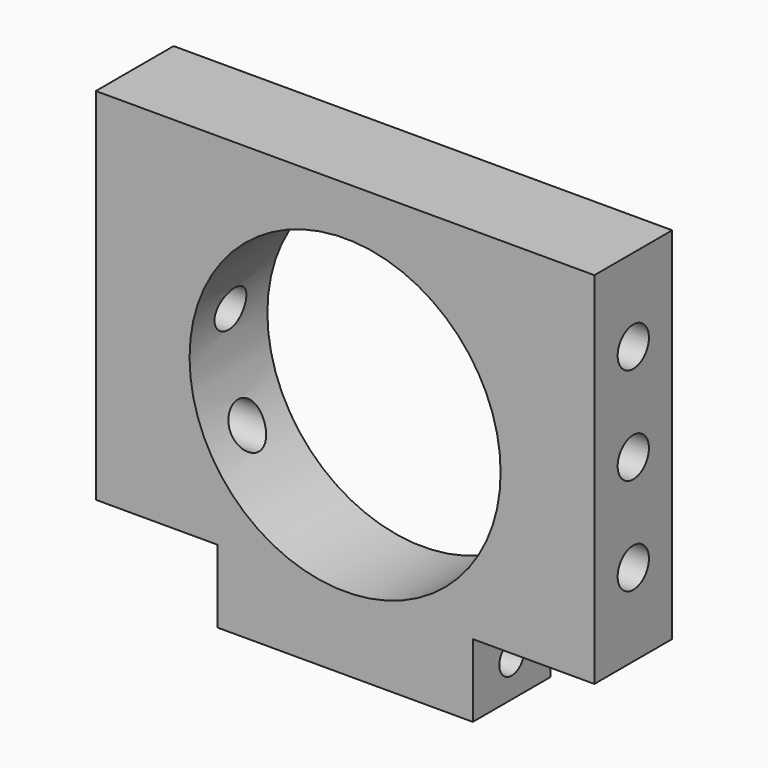
from build123d import *

# Parameters (mm, degrees)
F0_W     = 65.1002
F0_H     = 56.515
F0_R     = 20.3073
F1_DEPTH = 12.7
F2_W     = 15.875
F2_H     = 9.525
F3_DEPTH = 12.701
F4_R     = 2.5527
F5_DEPTH = 65.1012
F6_R     = 2.0193
F7_DEPTH = 49.2262


with BuildPart() as f1:
    # F0 (on Front) → F1 (new body)
    with BuildSketch(Plane.XZ):
        Rectangle(F0_W, F0_H)
        with Locations((0, 1.6002)):
            Circle(F0_R, mode=Mode.SUBTRACT)
    extrude(amount=F1_DEPTH)

    # F2 (on face) → F3 (cut, through all)
    with BuildSketch(Plane.XZ.offset(12.7)):
        with Locations((-24.6126, -23.495)):
            Rectangle(F2_W, F2_H)
        with Locations((24.6126, -23.495)):
            Rectangle(F2_W, F2_H)
    extrude(amount=-F3_DEPTH, mode=Mode.SUBTRACT)

    # F4 (on face) → F5 (cut, through all)
    with BuildSketch(Plane(origin=(-32.5501, 0, 0), x_dir=(0, -1, 0), z_dir=(-1, 0, 0))):
        with Locations((6.35, 17.4625)):
            Circle(F4_R)
        with Locations((6.35, -7.9375)):
            Circle(F4_R)
        with Locations((6.35, 4.7625)):
            Circle(F4_R)
    extrude(amount=-F5_DEPTH, mode=Mode.SUBTRACT)

    # F6 (on face) → F7 (cut, through all)
    with BuildSketch(Plane(origin=(-16.6751, 0, 0), x_dir=(0, -1, 0), z_dir=(-1, 0, 0))):
        with Locations((6.35, -23.495)):
            Circle(F6_R)
    extrude(amount=-F7_DEPTH, mode=Mode.SUBTRACT)


solid = f1.part
